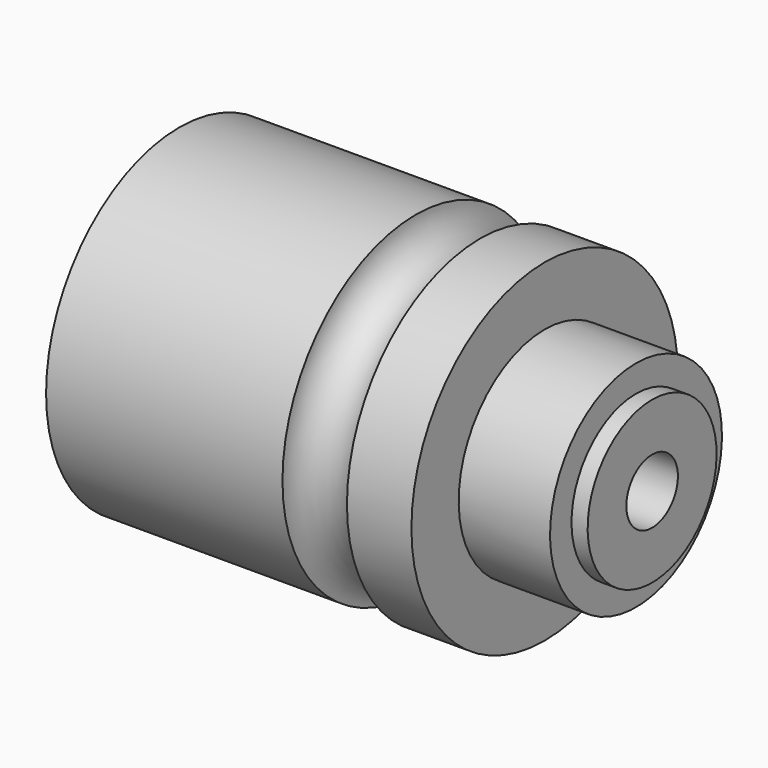
from build123d import *


with BuildPart() as f1:
    # F0 (on Front) → F1 (revolve)
    with BuildSketch(Plane.XZ):
        with BuildLine():
            Line((0, 31), (0, 0))
            Line((0, 0), (88, 0))
            Line((88, 0), (88, 15))
            Line((88, 15), (85, 15))
            Line((85, 15), (85, 20))
            Line((85, 20), (68, 20))
            Line((68, 20), (68, 31))
            Line((68, 31), (56, 31))
            ThreePointArc((56, 31), (50, 25), (44, 31))
            Line((44, 31), (0, 31))
        make_face()
    revolve(axis=Axis((89.068668, 0, 0), (1, 0, 0)))

    # F2 (on Front) → F3 (revolve, cut)
    with BuildSketch(Plane.XZ):
        Polygon((0, 25), (0, 0), (88, 0), (88, 6), (30, 6), (30, 16), (22, 16), (22, 20.5), (15, 20.5), (15, 12.5), (12, 12.5), (12, 16), (1.5, 16), (1.5, 25), align=None)
    revolve(axis=Axis((-26.017778, 0, 0), (-1, 0, 0)), mode=Mode.SUBTRACT)


solid = f1.part
